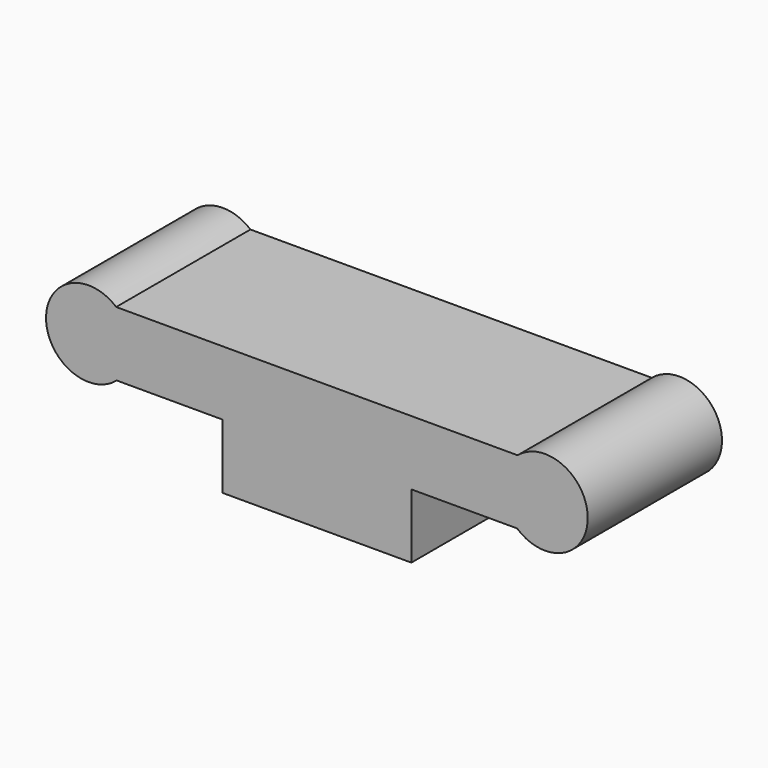
from build123d import *

# Parameters (mm, degrees)
SKETCH005_W  = 14.63643
SKETCH005_H  = 13
PAD004_DEPTH = 5
SKETCH_W     = 35
SKETCH_H     = 13
PAD_DEPTH    = 5
SKETCH003_R  = 3.3
PAD003_DEPTH = 13


with BuildPart() as pad004:
    # Sketch005 → Pad004 (new body)
    with BuildSketch(Plane(origin=(0, 0, 0), x_dir=(1, 0, 0), z_dir=(0, 0, -1))):
        Rectangle(SKETCH005_W, SKETCH005_H)
    extrude(amount=PAD004_DEPTH)


with BuildPart() as fusion:
    # Sketch → Pad (new body)
    with BuildSketch(Plane.XY):
        Rectangle(SKETCH_W, SKETCH_H)
    extrude(amount=PAD_DEPTH)

    # Sketch003 → Pad003 (new body)
    with BuildSketch(Plane.XZ.offset(6.5)):
        with Locations((17.683945, 2.483897)):
            Circle(SKETCH003_R)
        with Locations((-17.683945, 2.483897)):
            Circle(SKETCH003_R)
    extrude(amount=-PAD003_DEPTH)

    # Fusion: union Pad004
    add(pad004.part)


solid = fusion.part
